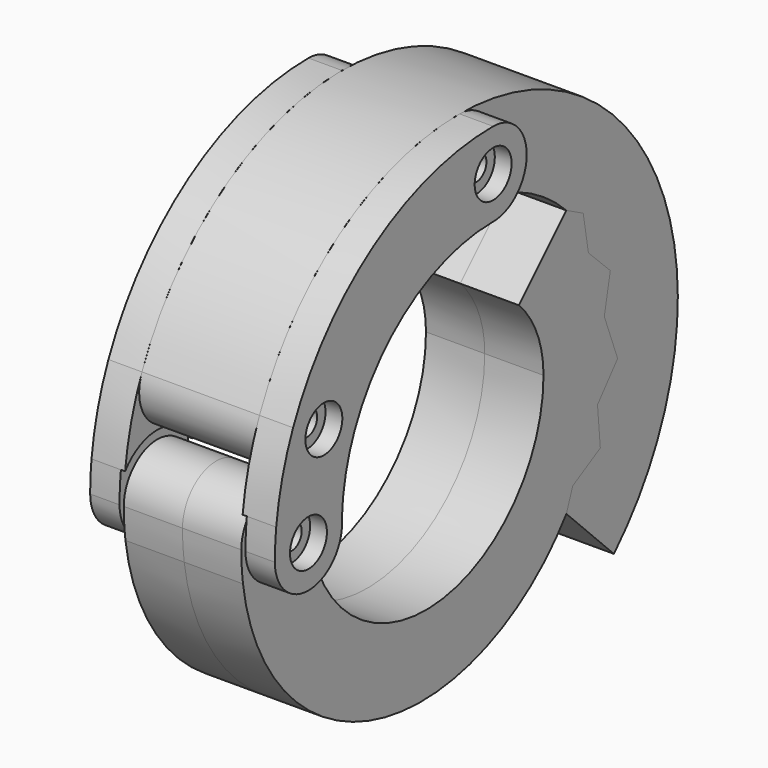
from build123d import *

# Parameters (mm, degrees)
F2_DEPTH  = 11
F3_DEPTH  = 11
F4_DEPTH  = 7
F5_DEPTH  = 7.5
F6_DEPTH  = 7
F7_DEPTH  = 7
F1_R      = 1.5
F8_DEPTH  = 12.5
F9_R      = 2.75
F10_DEPTH = 2
F12_DEPTH = 2


with BuildPart() as f2:
    # F0 (on Right) → F2 (new body)
    with BuildSketch(Plane.YZ):
        with BuildLine():
            ThreePointArc((-1.75e-08, 32.5), (-5, 27.4999999913), (-2e-10, 22.5))
            ThreePointArc((-2e-10, 22.5), (3.5355339059, 23.964466094), (5, 27.5))
            ThreePointArc((5, 27.5), (3.5355338997, 31.0355339121), (-1.75e-08, 32.5))
        make_face()
        with BuildLine():
            ThreePointArc((-20.2041663223, 11), (-20.3096347441, 9.9784518461), (-20.6215905745, 9.000000121))
            ThreePointArc((-20.6215905745, 9.000000121), (-12.3237574887, 18.8248506331), (-2e-10, 22.5))
            ThreePointArc((-2e-10, 22.5), (-5, 27.4999999913), (-1.75e-08, 32.5))
            ThreePointArc((-1.75e-08, 32.5), (-17.8009824177, 27.1914513214), (-29.7867413397, 13.0000015524))
            ThreePointArc((-29.7867413397, 13.0000015524), (-24.1826172748, 15.8945313916), (-20.2041663223, 11))
        make_face()
        with BuildLine():
            ThreePointArc((-29.7867413397, 13.0000015524), (-27.204167038, 6.4174246174), (-20.6215905745, 9.000000121))
            ThreePointArc((-20.6215905745, 9.000000121), (-20.3096347441, 9.9784518461), (-20.2041663223, 11))
            ThreePointArc((-20.2041663223, 11), (-24.1826172748, 15.8945313916), (-29.7867413397, 13.0000015524))
        make_face()
        with BuildLine():
            ThreePointArc((-32.3, 3.6), (-27.1366635677, 5.9889887825), (-22.3, 2.9933259094))
            ThreePointArc((-22.3, 2.9933259094), (-21.6699277371, 6.0550996579), (-20.6215905745, 9.000000121))
            ThreePointArc((-20.6215905745, 9.000000121), (-27.204167038, 6.4174246174), (-29.7867413397, 13.0000015524))
            ThreePointArc((-29.7867413397, 13.0000015524), (-31.3971474794, 8.3945893383), (-32.3, 3.6))
        make_face()
        with BuildLine():
            ThreePointArc((-32.5, 0), (-27.5, -5), (-22.5, 0))
            ThreePointArc((-22.5, 0), (-27.5, 5), (-32.5, 0))
        make_face()
        with BuildLine():
            ThreePointArc((-32.5, 0), (-27.5, 5), (-22.5, 0))
            ThreePointArc((-22.5, 0), (-22.4499443206, 1.5), (-22.3, 2.9933259094))
            ThreePointArc((-22.3, 2.9933259094), (-27.1366635677, 5.9889887825), (-32.3, 3.6))
            ThreePointArc((-32.3, 3.6), (-32.4499614792, 1.8027756377), (-32.5, 0))
        make_face()
    extrude(amount=F2_DEPTH)


with BuildPart() as f3:
    # F0 (on Right) → F3 (new body)
    with BuildSketch(Plane.YZ):
        with BuildLine():
            ThreePointArc((-32.3, 3.6), (-27.1366635677, 5.9889887825), (-22.3, 2.9933259094))
            ThreePointArc((-22.3, 2.9933259094), (-21.6699277371, 6.0550996579), (-20.6215905745, 9.000000121))
            ThreePointArc((-20.6215905745, 9.000000121), (-27.204167038, 6.4174246174), (-29.7867413397, 13.0000015524))
            ThreePointArc((-29.7867413397, 13.0000015524), (-31.3971474794, 8.3945893383), (-32.3, 3.6))
        make_face()
        with BuildLine():
            ThreePointArc((-29.7867413397, 13.0000015524), (-27.204167038, 6.4174246174), (-20.6215905745, 9.000000121))
            ThreePointArc((-20.6215905745, 9.000000121), (-20.3096347441, 9.9784518461), (-20.2041663223, 11))
            ThreePointArc((-20.2041663223, 11), (-24.1826172748, 15.8945313916), (-29.7867413397, 13.0000015524))
        make_face()
        with BuildLine():
            ThreePointArc((-20.2041663223, 11), (-20.3096347441, 9.9784518461), (-20.6215905745, 9.000000121))
            ThreePointArc((-20.6215905745, 9.000000121), (-12.3237574887, 18.8248506331), (-2e-10, 22.5))
            ThreePointArc((-2e-10, 22.5), (-5, 27.4999999913), (-1.75e-08, 32.5))
            ThreePointArc((-1.75e-08, 32.5), (-17.8009824177, 27.1914513214), (-29.7867413397, 13.0000015524))
            ThreePointArc((-29.7867413397, 13.0000015524), (-24.1826172748, 15.8945313916), (-20.2041663223, 11))
        make_face()
        with BuildLine():
            ThreePointArc((-1.75e-08, 32.5), (-5, 27.4999999913), (-2e-10, 22.5))
            ThreePointArc((-2e-10, 22.5), (3.5355339059, 23.964466094), (5, 27.5))
            ThreePointArc((5, 27.5), (3.5355338997, 31.0355339121), (-1.75e-08, 32.5))
        make_face()
        with BuildLine():
            ThreePointArc((-32.5, 0), (-27.5, -5), (-22.5, 0))
            ThreePointArc((-22.5, 0), (-27.5, 5), (-32.5, 0))
        make_face()
        with BuildLine():
            ThreePointArc((-32.5, 0), (-27.5, 5), (-22.5, 0))
            ThreePointArc((-22.5, 0), (-22.4499443206, 1.5), (-22.3, 2.9933259094))
            ThreePointArc((-22.3, 2.9933259094), (-27.1366635677, 5.9889887825), (-32.3, 3.6))
            ThreePointArc((-32.3, 3.6), (-32.4499614792, 1.8027756377), (-32.5, 0))
        make_face()
    extrude(amount=-F3_DEPTH)


with BuildPart() as f4_tool:
    # F0 (on Right) → F4 (new body, symmetric)
    with BuildSketch(Plane.YZ):
        with BuildLine():
            ThreePointArc((-1.75e-08, 32.5), (-5, 27.4999999913), (-2e-10, 22.5))
            ThreePointArc((-2e-10, 22.5), (3.5355339059, 23.964466094), (5, 27.5))
            ThreePointArc((5, 27.5), (3.5355338997, 31.0355339121), (-1.75e-08, 32.5))
        make_face()
        with BuildLine():
            ThreePointArc((-20.2041663223, 11), (-20.3096347441, 9.9784518461), (-20.6215905745, 9.000000121))
            ThreePointArc((-20.6215905745, 9.000000121), (-12.3237574887, 18.8248506331), (-2e-10, 22.5))
            ThreePointArc((-2e-10, 22.5), (-5, 27.4999999913), (-1.75e-08, 32.5))
            ThreePointArc((-1.75e-08, 32.5), (-17.8009824177, 27.1914513214), (-29.7867413397, 13.0000015524))
            ThreePointArc((-29.7867413397, 13.0000015524), (-24.1826172748, 15.8945313916), (-20.2041663223, 11))
        make_face()
        with BuildLine():
            ThreePointArc((-29.7867413397, 13.0000015524), (-27.204167038, 6.4174246174), (-20.6215905745, 9.000000121))
            ThreePointArc((-20.6215905745, 9.000000121), (-20.3096347441, 9.9784518461), (-20.2041663223, 11))
            ThreePointArc((-20.2041663223, 11), (-24.1826172748, 15.8945313916), (-29.7867413397, 13.0000015524))
        make_face()
        with BuildLine():
            ThreePointArc((-32.3, 3.6), (-27.1366635677, 5.9889887825), (-22.3, 2.9933259094))
            ThreePointArc((-22.3, 2.9933259094), (-21.6699277371, 6.0550996579), (-20.6215905745, 9.000000121))
            ThreePointArc((-20.6215905745, 9.000000121), (-27.204167038, 6.4174246174), (-29.7867413397, 13.0000015524))
            ThreePointArc((-29.7867413397, 13.0000015524), (-31.3971474794, 8.3945893383), (-32.3, 3.6))
        make_face()
        with BuildLine():
            ThreePointArc((-32.5, 0), (-27.5, -5), (-22.5, 0))
            ThreePointArc((-22.5, 0), (-27.5, 5), (-32.5, 0))
        make_face()
        with BuildLine():
            ThreePointArc((-32.5, 0), (-27.5, 5), (-22.5, 0))
            ThreePointArc((-22.5, 0), (-22.4499443206, 1.5), (-22.3, 2.9933259094))
            ThreePointArc((-22.3, 2.9933259094), (-27.1366635677, 5.9889887825), (-32.3, 3.6))
            ThreePointArc((-32.3, 3.6), (-32.4499614792, 1.8027756377), (-32.5, 0))
        make_face()
    extrude(amount=F4_DEPTH, both=True)


with BuildPart() as f2_1:
    add(f2.part)

    # F4: cut by f4_tool
    add(f4_tool.part, mode=Mode.SUBTRACT)


with BuildPart() as f3_1:
    add(f3.part)

    # F4: cut by f4_tool
    add(f4_tool.part, mode=Mode.SUBTRACT)


with BuildPart() as f5_tool:
    # F0 (on Right) → F5 (new body, symmetric)
    with BuildSketch(Plane.YZ):
        with BuildLine():
            ThreePointArc((-22.2555555556, -2.9147559879), (-22.4387818127, -1.4624940646), (-22.5, 0))
            ThreePointArc((-22.5, 0), (-27.5, -5), (-32.5, 0))
            ThreePointArc((-32.5, 0), (-32.436908313, -1.83852516), (-32.2479300944, -3.6684001715))
            ThreePointArc((-32.2479300944, -3.6684001715), (-27.048750054, -5.9830070605), (-22.2555555556, -2.9147559879))
        make_face()
        with BuildLine():
            ThreePointArc((-32.5, 0), (-27.5, -5), (-22.5, 0))
            ThreePointArc((-22.5, 0), (-27.5, 5), (-32.5, 0))
        make_face()
        with BuildLine():
            ThreePointArc((-32.5, 0), (-27.5, 5), (-22.5, 0))
            ThreePointArc((-22.5, 0), (-22.4499443206, 1.5), (-22.3, 2.9933259094))
            ThreePointArc((-22.3, 2.9933259094), (-27.1366635677, 5.9889887825), (-32.3, 3.6))
            ThreePointArc((-32.3, 3.6), (-32.4499614792, 1.8027756377), (-32.5, 0))
        make_face()
        with BuildLine():
            ThreePointArc((-22.3, 2.9933259094), (-22.4499443206, 1.5), (-22.5, 0))
            ThreePointArc((-22.5, 0), (-22.4387818127, -1.4624940646), (-22.2555555556, -2.9147559879))
            ThreePointArc((-22.2555555556, -2.9147559879), (-21.6919595961, -1.5055453054), (-21.5, 0))
            ThreePointArc((-21.5, 0), (-21.7034493015, 1.5491933385), (-22.3, 2.9933259094))
        make_face()
        with BuildLine():
            ThreePointArc((-32.2479300944, -3.6684001715), (-32.436908313, -1.83852516), (-32.5, 0))
            ThreePointArc((-32.5, 0), (-32.4499614792, 1.8027756377), (-32.3, 3.6))
            ThreePointArc((-32.3, 3.6), (-33.4998460426, -0.0429821432), (-32.2479300944, -3.6684001715))
        make_face()
    extrude(amount=F5_DEPTH, both=True)


with BuildPart() as f2_2:
    add(f2_1.part)

    # F5: cut by f5_tool
    add(f5_tool.part, mode=Mode.SUBTRACT)


with BuildPart() as f3_2:
    add(f3_1.part)

    # F5: cut by f5_tool
    add(f5_tool.part, mode=Mode.SUBTRACT)


with BuildPart() as f6:
    # F0 (on Right) → F6 (new body, symmetric)
    with BuildSketch(Plane.YZ):
        with BuildLine():
            ThreePointArc((-32.5, 0), (-27.5, -5), (-22.5, 0))
            ThreePointArc((-22.5, 0), (-27.5, 5), (-32.5, 0))
        make_face()
        with BuildLine():
            ThreePointArc((-22.2555555556, -2.9147559879), (-22.4387818127, -1.4624940646), (-22.5, 0))
            ThreePointArc((-22.5, 0), (-27.5, -5), (-32.5, 0))
            ThreePointArc((-32.5, 0), (-32.436908313, -1.83852516), (-32.2479300944, -3.6684001715))
            ThreePointArc((-32.2479300944, -3.6684001715), (-27.048750054, -5.9830070605), (-22.2555555556, -2.9147559879))
        make_face()
        with BuildLine():
            ThreePointArc((12.5, 0), (-3.5375059354, -17.4387818127), (-22.2555555556, -2.9147559879))
            ThreePointArc((-22.2555555556, -2.9147559879), (-27.048750054, -5.9830070605), (-32.2479300944, -3.6684001715))
            ThreePointArc((-32.2479300944, -3.6684001715), (-12.2878883267, -25.992723915), (15.9099025767, -15.9099025767))
            Line((15.9099025767, -15.9099025767), (16.8449594162, -13.3602897524))
            Line((16.8449594162, -13.3602897524), (20.9573456606, -11.0525292345))
            Line((20.9573456606, -11.0525292345), (20.5391906636, -6.3554423043))
            Line((20.5391906636, -6.3554423043), (23.5371067656, -2.7153903437))
            Line((23.5371067656, -2.7153903437), (22.5, 0))
            Line((22.5, 0), (21.550431372, 2.4861948341))
            Line((21.550431372, 2.4861948341), (22.4498130509, 6.9466462396))
            Line((22.4498130509, 6.9466462396), (19.1884178414, 10.1196283437))
            Line((19.1884178414, 10.1196283437), (18.4119323851, 14.6031074037))
            Line((18.4119323851, 14.6031074037), (15.9099025767, 15.9099025767))
            Line((15.9099025767, 15.9099025767), (8.8388347648, 8.8388347648))
            ThreePointArc((8.8388347648, 8.8388347648), (11.5484941564, 4.7835429046), (12.5, 0))
        make_face()
        with BuildLine():
            ThreePointArc((12.5, 0), (-3.5375059354, -17.4387818127), (-22.2555555556, -2.9147559879))
            ThreePointArc((-22.2555555556, -2.9147559879), (-27.048750054, -5.9830070605), (-32.2479300944, -3.6684001715))
            ThreePointArc((-32.2479300944, -3.6684001715), (-12.2878883267, -25.992723915), (15.9099025767, -15.9099025767))
            Line((15.9099025767, -15.9099025767), (16.8449594162, -13.3602897524))
            Line((16.8449594162, -13.3602897524), (20.9573456606, -11.0525292345))
            Line((20.9573456606, -11.0525292345), (20.5391906636, -6.3554423043))
            Line((20.5391906636, -6.3554423043), (23.5371067656, -2.7153903437))
            Line((23.5371067656, -2.7153903437), (22.5, 0))
            Line((22.5, 0), (21.550431372, 2.4861948341))
            Line((21.550431372, 2.4861948341), (22.4498130509, 6.9466462396))
            Line((22.4498130509, 6.9466462396), (19.1884178414, 10.1196283437))
            Line((19.1884178414, 10.1196283437), (18.4119323851, 14.6031074037))
            Line((18.4119323851, 14.6031074037), (15.9099025767, 15.9099025767))
            Line((15.9099025767, 15.9099025767), (8.8388347648, 8.8388347648))
            ThreePointArc((8.8388347648, 8.8388347648), (11.5484941564, 4.7835429046), (12.5, 0))
        make_face()
    extrude(amount=F6_DEPTH, both=True)


with BuildPart() as f7:
    # F0 (on Right) → F7 (new body, symmetric)
    with BuildSketch(Plane.YZ):
        with BuildLine():
            Line((16.8449594162, -13.3602897524), (15.9099025767, -15.9099025767))
            Line((15.9099025767, -15.9099025767), (22.9809703886, -22.9809703886))
            ThreePointArc((22.9809703886, -22.9809703886), (30.0260848033, 12.43721156), (-1.75e-08, 32.5))
            ThreePointArc((-1.75e-08, 32.5), (3.5355338997, 31.0355339121), (5, 27.5))
            ThreePointArc((5, 27.5), (3.5355339059, 23.964466094), (-2e-10, 22.5))
            ThreePointArc((-2e-10, 22.5), (8.6103772281, 20.7872894815), (15.9099025767, 15.9099025767))
            Line((15.9099025767, 15.9099025767), (18.4119323851, 14.6031074037))
            Line((18.4119323851, 14.6031074037), (19.1884178414, 10.1196283437))
            Line((19.1884178414, 10.1196283437), (22.4498130509, 6.9466462396))
            Line((22.4498130509, 6.9466462396), (21.550431372, 2.4861948341))
            Line((21.550431372, 2.4861948341), (22.5, 0))
            Line((22.5, 0), (23.5371067656, -2.7153903437))
            Line((23.5371067656, -2.7153903437), (20.5391906636, -6.3554423043))
            Line((20.5391906636, -6.3554423043), (20.9573456606, -11.0525292345))
            Line((20.9573456606, -11.0525292345), (16.8449594162, -13.3602897524))
        make_face()
        with BuildLine():
            ThreePointArc((-1.75e-08, 32.5), (-5, 27.4999999913), (-2e-10, 22.5))
            ThreePointArc((-2e-10, 22.5), (3.5355339059, 23.964466094), (5, 27.5))
            ThreePointArc((5, 27.5), (3.5355338997, 31.0355339121), (-1.75e-08, 32.5))
        make_face()
        with BuildLine():
            ThreePointArc((-20.2041663223, 11), (-20.3096347441, 9.9784518461), (-20.6215905745, 9.000000121))
            ThreePointArc((-20.6215905745, 9.000000121), (-12.3237574887, 18.8248506331), (-2e-10, 22.5))
            ThreePointArc((-2e-10, 22.5), (-5, 27.4999999913), (-1.75e-08, 32.5))
            ThreePointArc((-1.75e-08, 32.5), (-17.8009824177, 27.1914513214), (-29.7867413397, 13.0000015524))
            ThreePointArc((-29.7867413397, 13.0000015524), (-24.1826172748, 15.8945313916), (-20.2041663223, 11))
        make_face()
        with BuildLine():
            ThreePointArc((-29.7867413397, 13.0000015524), (-27.204167038, 6.4174246174), (-20.6215905745, 9.000000121))
            ThreePointArc((-20.6215905745, 9.000000121), (-20.3096347441, 9.9784518461), (-20.2041663223, 11))
            ThreePointArc((-20.2041663223, 11), (-24.1826172748, 15.8945313916), (-29.7867413397, 13.0000015524))
        make_face()
    extrude(amount=F7_DEPTH, both=True)


with BuildPart() as f8_tool:
    # F1 (on Right) → F8 (new body, symmetric)
    with BuildSketch(Plane.YZ):
        with Locations((-27.5, 0)):
            Circle(F1_R)
        with Locations((-25.2041663223, 11)):
            Circle(F1_R)
        with Locations((0, 27.5)):
            Circle(F1_R)
    extrude(amount=F8_DEPTH, both=True)


with BuildPart() as f2_3:
    add(f2_2.part)

    # F8: cut by f8_tool
    add(f8_tool.part, mode=Mode.SUBTRACT)

    # F9 (on face) → F10 (cut)
    with BuildSketch(Plane.YZ.offset(11)):
        with Locations((-27.5, 0)):
            Circle(F9_R)
        with Locations((-25.2041663223, 11)):
            Circle(F9_R)
        with Locations((0, 27.5)):
            Circle(F9_R)
    extrude(amount=-F10_DEPTH, mode=Mode.SUBTRACT)


with BuildPart() as f3_3:
    add(f3_2.part)

    # F8: cut by f8_tool
    add(f8_tool.part, mode=Mode.SUBTRACT)

    # F11 (on face) → F12 (cut)
    with BuildSketch(Plane(origin=(-11, 0, 0), x_dir=(0, -1, 0), z_dir=(-1, 0, 0))):
        Polygon((30.5, -1.7320508076), (30.5, 1.7320508076), (27.5, 3.4641016151), (24.5, 1.7320508076), (24.5, -1.7320508076), (27.5, -3.4641016151), align=None)
        Polygon((23.4721155147, 8), (26.9362171298, 8), (28.6682679374, 11), (26.9362171298, 14), (23.4721155147, 14), (21.7400647071, 11), align=None)
        Polygon((-1.7320508076, 24.5), (1.7320508076, 24.5), (3.4641016151, 27.5), (1.7320508076, 30.5), (-1.7320508076, 30.5), (-3.4641016151, 27.5), align=None)
    extrude(amount=-F12_DEPTH, mode=Mode.SUBTRACT)


with BuildPart() as f6_1:
    add(f6.part)

    # F8: cut by f8_tool
    add(f8_tool.part, mode=Mode.SUBTRACT)


with BuildPart() as f7_1:
    add(f7.part)

    # F8: cut by f8_tool
    add(f8_tool.part, mode=Mode.SUBTRACT)


solid = Compound([f2_3.part, f3_3.part, f6_1.part, f7_1.part])
